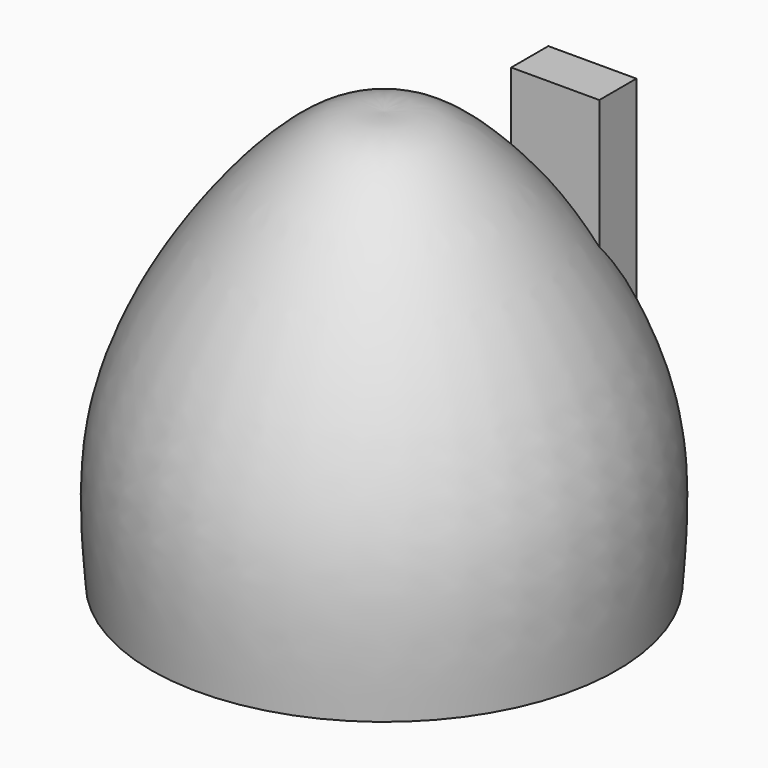
from build123d import *

# Parameters (mm, degrees)
F3_W     = 10.3897844814
F3_H     = 5.468309857
F4_DEPTH = 52.578
F5_DEPTH = 25.4


with BuildPart() as f1:
    # F0 (on Front) → F1 (revolve)
    with BuildSketch(Plane.XZ):
        with BuildLine():
            Line((0, 0), (0, 38.4220667183))
            Line((0, 38.4220667183), (0, 49.070879817))
            add(Edge.make_bspline(
                [(-27.4854507297, 0), (-27.9196571576, 5.6795171635), (-28.8301087382, 17.5884274105), (-19.8158202139, 35.7983770168), (-7.1845732595, 49.4544851436), (-1.955675103, 49.1752990162), (0, 49.070879817)],
                knots=[0, 0, 0, 0, 0.2694193541, 0.5649231817, 0.8372756791, 1, 1, 1, 1], degree=3))
            Line((-27.4854507297, 0), (0, 0))
        make_face()
    revolve(axis=Axis((0, 0, 2.0146388561), (0, 0, -1)))

    # F3 (on offset) → F4 (cut)
    with BuildSketch(Plane.XY.offset(76.2)):
        with Locations((-8.7924644537, 16.9805395417)):
            Rectangle(F3_W, F3_H)
        with Locations((8.7924644537, 16.9805395417)):
            Rectangle(F3_W, F3_H)
    extrude(amount=-F4_DEPTH, mode=Mode.SUBTRACT)

    # F5 (add): a face of the model
    f5_faces = [f1.faces().sort_by_distance(p)[0] for p in [
        (8.7924644537, 16.9805395417, 23.622),
    ]]
    extrude(f5_faces, amount=F5_DEPTH)


solid = f1.part
